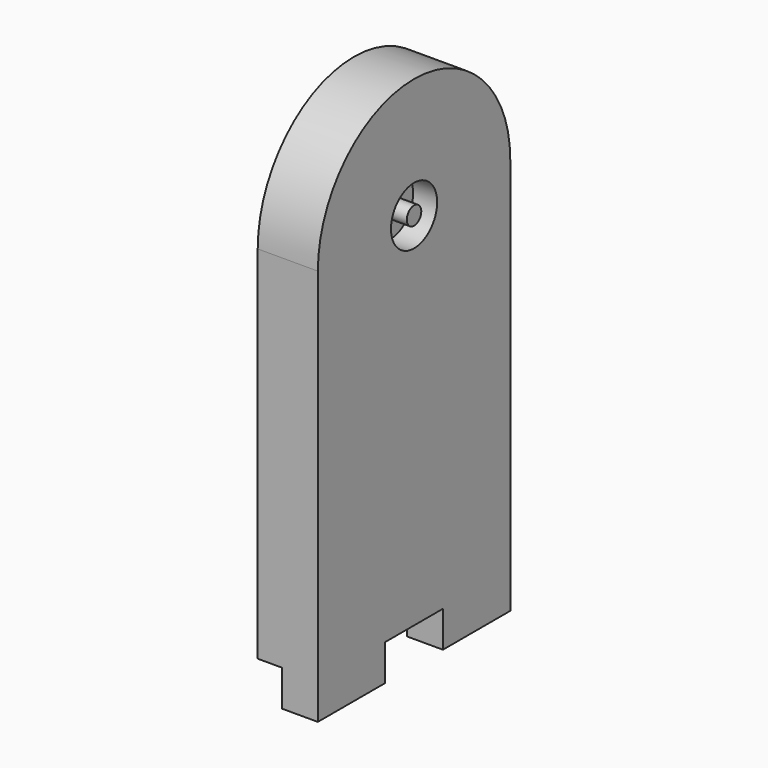
from build123d import *

# Parameters (mm, degrees)
F1_DEPTH = 5
F2_R     = 2.4
F2_R_2   = 0.75
F3_DEPTH = 2
F4_W     = 7
F4_H     = 3
F5_DEPTH = 3


with BuildPart() as f1:
    # F0 (on Right) → F1 (new body)
    with BuildSketch(Plane.YZ):
        with BuildLine():
            ThreePointArc((10, 30), (0, 40), (-10, 30))
            Line((-10, 30), (-10, 0))
            Line((-10, 0), (10, 0))
            Line((10, 0), (10, 30))
        make_face()
    extrude(amount=F1_DEPTH)

    # F2 (on face) → F3 (cut)
    with BuildSketch(Plane.YZ.offset(5)):
        with Locations((0, 30)):
            Circle(F2_R)
        with Locations((0, 30)):
            Circle(F2_R_2, mode=Mode.SUBTRACT)
    extrude(amount=-F3_DEPTH, mode=Mode.SUBTRACT)

    # F4 (on face) → F5 (join)
    with BuildSketch(Plane.YZ.offset(5)):
        with Locations((-6.5, -1.5)):
            Rectangle(F4_W, F4_H)
        with Locations((6.5, -1.5)):
            Rectangle(F4_W, F4_H)
    extrude(amount=-F5_DEPTH)


solid = f1.part
